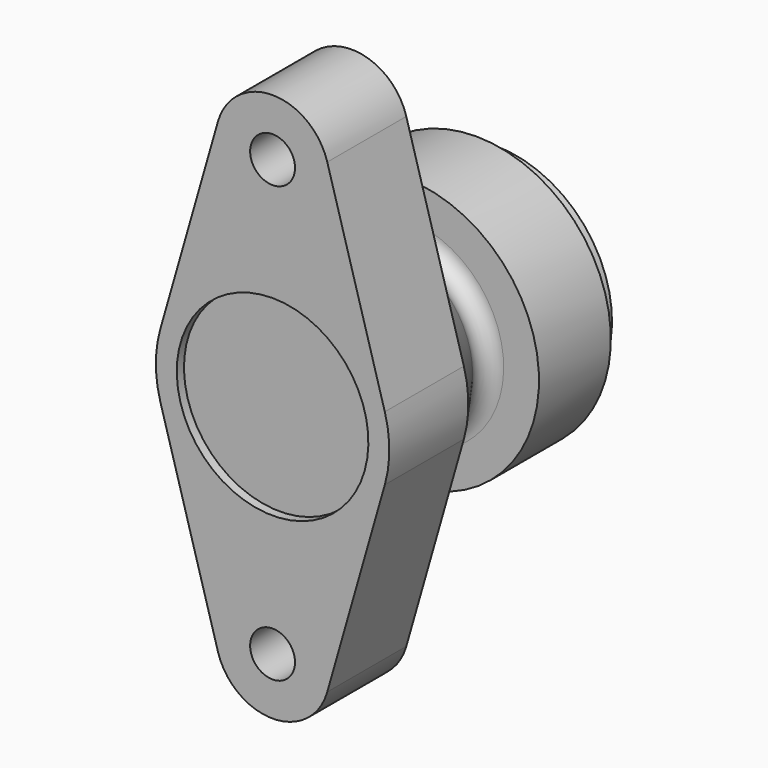
from build123d import *

# Parameters (mm, degrees)
F2_R     = 7.5
F3_DEPTH = 33


with BuildPart() as f1:
    # F0 (on Right) → F1 (revolve)
    with BuildSketch(Plane.YZ):
        with BuildLine():
            Line((3, 32), (3, 0))
            Line((3, 0), (21, 0))
            Line((21, 0), (21, 26))
            Line((21, 26), (63, 26))
            Line((63, 26), (63, 29))
            Line((63, 29), (93, 31))
            Line((93, 31), (93, 39))
            Line((93, 39), (85, 39))
            Line((85, 39), (85, 45))
            Line((85, 45), (55, 45))
            Line((55, 45), (55, 33.200345))
            ThreePointArc((55, 33.200345), (52.308743, 28.765291), (47.132118, 29.104585))
            Line((47.132118, 29.104585), (33, 39))
            Line((33, 39), (0, 39))
            Line((0, 39), (0, 32))
            Line((0, 32), (3, 32))
        make_face()
    revolve(axis=Axis((0, 12, 0), (0, -1, 0)))

    # F2 (on Front) → F3 (join)
    with BuildSketch(Plane.XZ):
        with BuildLine():
            Line((37.494811, 10.730289), (18.266703, 77.918999))
            ThreePointArc((18.266703, 77.918999), (0, 91.691422), (-18.266703, 77.918999))
            Line((-18.266703, 77.918999), (-37.494811, 10.730289))
            ThreePointArc((-37.494811, 10.730289), (0, 39), (37.494811, 10.730289))
        make_face()
        with Locations((0, 72.691422)):
            Circle(F2_R, mode=Mode.SUBTRACT)
        with BuildLine():
            ThreePointArc((37.494811, -10.730289), (0, -39), (-37.494811, -10.730289))
            Line((-37.494811, -10.730289), (-18.266703, -77.918999))
            ThreePointArc((-18.266703, -77.918999), (0, -91.691422), (18.266703, -77.918999))
            Line((18.266703, -77.918999), (37.494811, -10.730289))
        make_face()
        with Locations((0, -72.691422)):
            Circle(F2_R, mode=Mode.SUBTRACT)
    extrude(amount=-F3_DEPTH)


solid = f1.part
